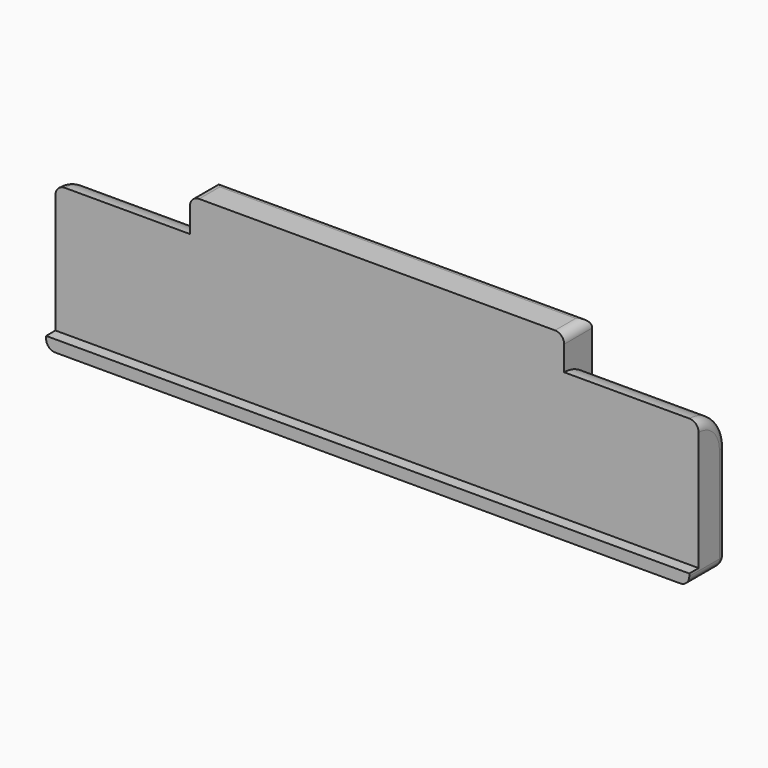
from build123d import *

# Parameters (mm, degrees)
EXTRUDE003_DEPTH = 69.85
BOX024_W         = 40.64
BOX024_H         = 3.81
BOX024_DEPTH     = 7.62
BOX025_W         = 69.85
BOX025_H         = 1.27
BOX025_DEPTH     = 1.27
BOX023_W         = 69.85
BOX023_H         = 3.81
BOX023_DEPTH     = 11.43
FILLET002_R      = 1


with BuildPart() as extrude003:
    # Sketch001 (on Face2 of Box023) → Extrude003 (new body)
    with BuildSketch(Plane.YZ.offset(69.85)):
        with BuildLine():
            ThreePointArc((3.81, 11.43), (2.694077, 14.124077), (0, 15.24))
            Line((0, 15.24), (0, 11.43))
            Line((0, 11.43), (3.81, 11.43))
        make_face()
    extrude(amount=-EXTRUDE003_DEPTH)


with BuildPart() as cube024:
    # Box024 → Box024 (new body)
    with BuildSketch(Plane(origin=(14.605, 0, 11.303), x_dir=(1, 0, 0), z_dir=(0, 0, 1))):
        with Locations((20.32, 1.905)):
            Rectangle(BOX024_W, BOX024_H)
    extrude(amount=BOX024_DEPTH)


with BuildPart() as cube025:
    # Box025 → Box025 (new body)
    with BuildSketch(Plane(origin=(0, -1.27, 0), x_dir=(1, 0, 0), z_dir=(0, 0, 1))):
        with Locations((34.925, 0.635)):
            Rectangle(BOX025_W, BOX025_H)
    extrude(amount=BOX025_DEPTH)


with BuildPart() as fillet002:
    # Box023 → Box023 (new body)
    with BuildSketch(Plane.XY):
        with Locations((34.925, 1.905)):
            Rectangle(BOX023_W, BOX023_H)
    extrude(amount=BOX023_DEPTH)

    # Fusion019: union Extrude003, Cube024, Cube025
    add(extrude003.part)
    add(cube024.part)
    add(cube025.part)

    # Fillet002
    fillet002_edges = [fillet002.edges().sort_by_distance(p)[0] for p in [
        (0, 3.81, 5.715),
        (0, 1.905, 0),
        (0, -0.635, 0),
        (0, 2.694077, 14.124077),
        (69.85, 3.81, 5.715),
        (34.925, 3.81, 0),
        (69.85, 1.905, 0),
        (69.85, -0.635, 0),
        (69.85, 2.694077, 14.124077),
        (14.605, 1.905, 18.923),
        (55.245, 1.905, 18.923),
        (34.925, 3.81, 18.923),
    ]]
    fillet(fillet002_edges, radius=FILLET002_R)


with BuildPart() as fillet002_1:
    # Fillet002 placement: moved
    add(fillet002.part.moved(Location((63.5, -27.94, 0))))


solid = fillet002_1.part
